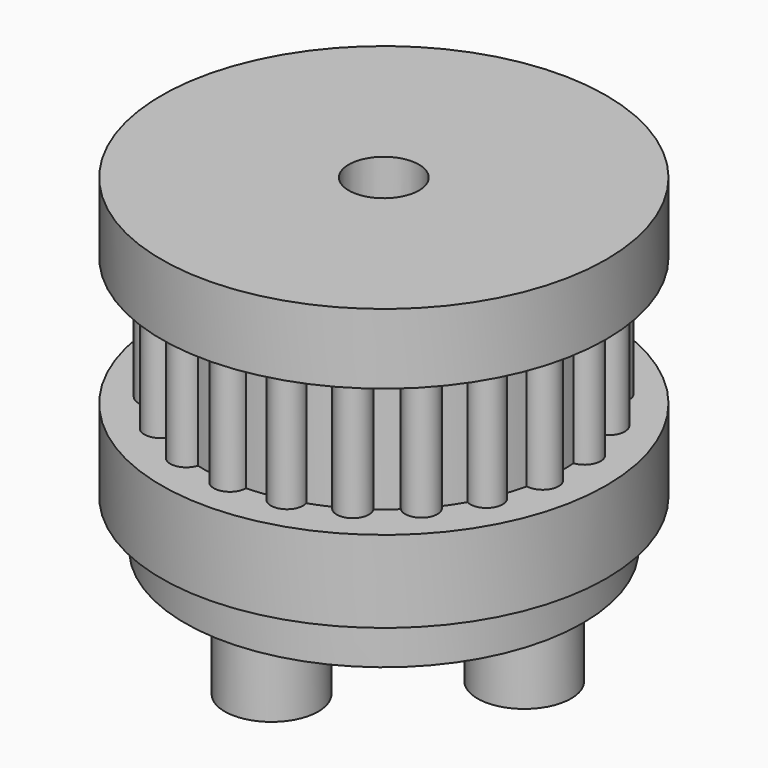
from build123d import *

# Parameters (mm, degrees)
SKETCH_R           = 8.5
PAD_DEPTH          = 2
SKETCH001_R        = 2
PAD001_DEPTH       = 3
SKETCH002_R        = 9.5
PAD002_DEPTH       = 3.5
PAD003_DEPTH       = 5.5
POLARPATTERN_COUNT = 21
SKETCH005_R        = 9.5
PAD004_DEPTH       = 3
SKETCH006_R        = 1.5
POCKET_DEPTH       = 14.001


with BuildPart() as part:
    # Sketch → Pad (new body)
    with BuildSketch(Plane.XY):
        Circle(SKETCH_R)
    extrude(amount=PAD_DEPTH)

    # Sketch001 → Pad001 (new body)
    with BuildSketch(Plane(origin=(0, 0, 0), x_dir=(1, 0, 0), z_dir=(0, 0, -1))):
        with Locations((0, 6)):
            Circle(SKETCH001_R)
        with Locations((6, 0)):
            Circle(SKETCH001_R)
        with Locations((0, -6)):
            Circle(SKETCH001_R)
        with Locations((-6, 0)):
            Circle(SKETCH001_R)
    extrude(amount=PAD001_DEPTH)

    # Sketch002 → Pad002 (new body)
    with BuildSketch(Plane.XY.offset(2)):
        Circle(SKETCH002_R)
    extrude(amount=PAD002_DEPTH)

    # Sketch004 → Pad003 (new body)
    with BuildSketch(Plane.XY.offset(5.5)):
        with BuildLine():
            ThreePointArc((2.252349, 7.321374), (1.731707, 8.178679), (0.90828, 7.60596))
            ThreePointArc((0.90828, 7.60596), (0.454943, 7.646478), (0, 7.66))
            Line((0, 7.66), (0, 0))
            Line((0, 0), (2.252349, 7.321374))
        make_face()
    pad003 = extrude(amount=PAD003_DEPTH)

    # PolarPattern: Pad003 ×21 about axis
    polarpattern_axis = Axis((0, 0, 5.5), (0, 0, 1))
    for i in range(1, POLARPATTERN_COUNT):
        add(pad003.rotate(polarpattern_axis, i * 360 / POLARPATTERN_COUNT))

    # Sketch005 → Pad004 (new body)
    with BuildSketch(Plane.XY.offset(11)):
        Circle(SKETCH005_R)
    extrude(amount=PAD004_DEPTH)

    # Sketch006 → Pocket (cut, through all)
    with BuildSketch(Plane(origin=(0, 0, 0), x_dir=(1, 0, 0), z_dir=(0, 0, -1))):
        Circle(SKETCH006_R)
    extrude(amount=-POCKET_DEPTH, mode=Mode.SUBTRACT)


solid = part.part
